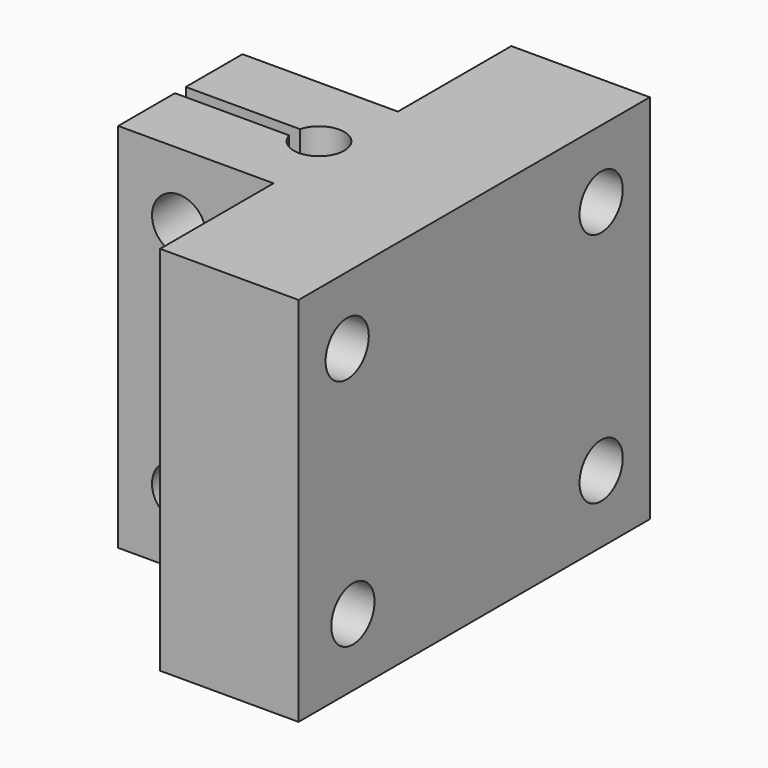
from build123d import *

# Parameters (mm, degrees)
F1_DEPTH = 55
F3_DEPTH = 44.001
F4_R     = 4
F5_DEPTH = 43.501


with BuildPart() as f1:
    # F0 (on Top) → F1 (new body)
    with BuildSketch(Plane.XY):
        with BuildLine():
            Line((51.874786, -31.5), (51.874786, 33.5))
            Line((51.874786, 33.5), (31.374786, 33.5))
            Line((31.374786, 33.5), (31.374786, 12.5))
            Line((31.374786, 12.5), (8.374786, 12.5))
            Line((8.374786, 12.5), (8.374786, 2))
            Line((8.374786, 2), (25.289246, 2))
            ThreePointArc((25.289246, 2), (32.653455, 1), (25.289246, 0))
            Line((25.289246, 0), (8.374786, 0))
            Line((8.374786, 0), (8.374786, -10.5))
            Line((8.374786, -10.5), (31.374786, -10.5))
            Line((31.374786, -10.5), (31.374786, -31.5))
            Line((31.374786, -31.5), (51.874786, -31.5))
        make_face()
    extrude(amount=F1_DEPTH)

    # F2 (on face) → F3 (cut, through all)
    with BuildSketch(Plane.XZ.offset(10.5)):
        with BuildLine():
            ThreePointArc((13.374786, 44.981502), (17.374786, 40.981502), (21.374786, 44.981502))
            ThreePointArc((21.374786, 44.981502), (17.374786, 48.981502), (13.374786, 44.981502))
        make_face()
        with BuildLine():
            ThreePointArc((13.374786, 10), (17.374786, 6), (21.374786, 10))
            ThreePointArc((21.374786, 10), (17.374786, 14), (13.374786, 10))
        make_face()
    extrude(amount=-F3_DEPTH, mode=Mode.SUBTRACT)

    # F4 (on face) → F5 (cut, through all)
    with BuildSketch(Plane.YZ.offset(51.874786)):
        with BuildLine():
            ThreePointArc((-26.5, 45), (-22.5, 41), (-18.5, 45))
            ThreePointArc((-18.5, 45), (-22.5, 49), (-26.5, 45))
        make_face()
        with Locations((24.5, 45)):
            Circle(F4_R)
        with Locations((24.5, 10)):
            Circle(F4_R)
        with BuildLine():
            ThreePointArc((-25.441907, 10), (-21.441907, 6), (-17.441907, 10))
            ThreePointArc((-17.441907, 10), (-21.441907, 14), (-25.441907, 10))
        make_face()
    extrude(amount=-F5_DEPTH, mode=Mode.SUBTRACT)


solid = f1.part
